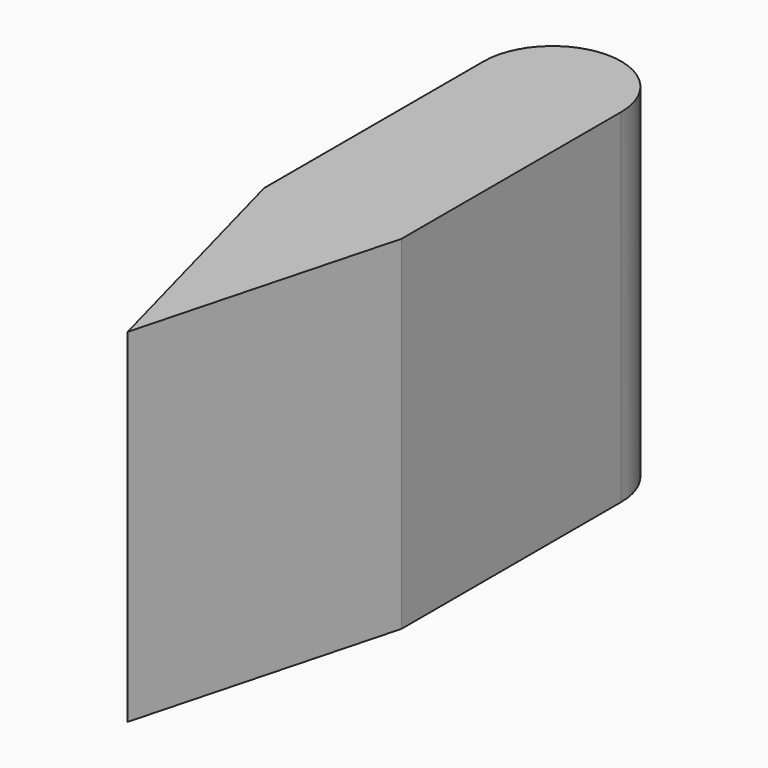
from build123d import *

# Parameters (mm, degrees)
F0_W     = 10
F0_H     = 20
F1_DEPTH = 25


with BuildPart() as f1:
    # F0 (on Top) → F1 (new body)
    with BuildSketch(Plane.XY):
        Rectangle(F0_W, F0_H)
        Polygon((0, -28.660254), (5, -10), (-5, -10), align=None)
        with BuildLine():
            Line((-5, 10), (5, 10))
            ThreePointArc((5, 10), (0, 15), (-5, 10))
        make_face()
    extrude(amount=F1_DEPTH)


solid = f1.part
